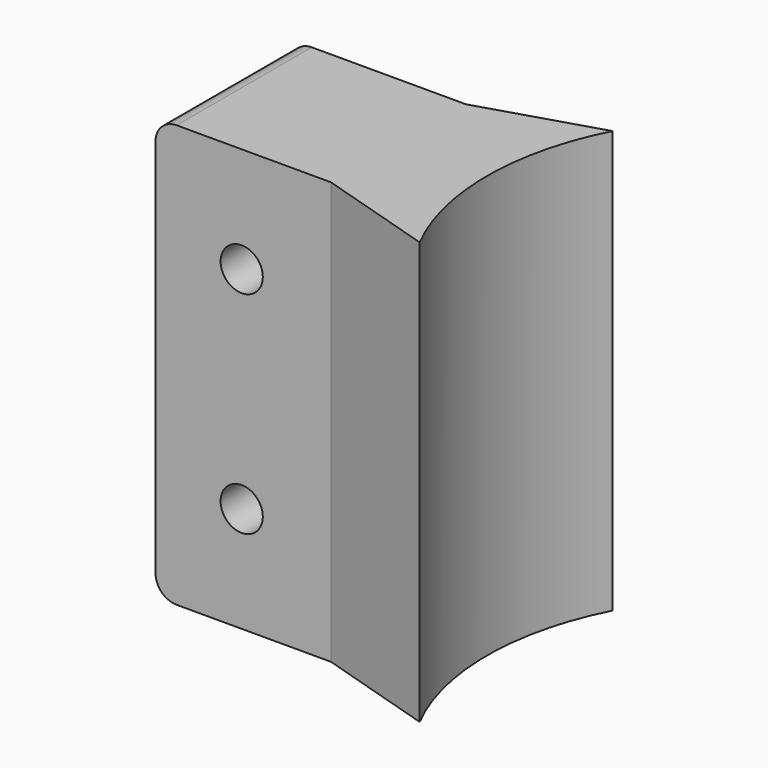
from build123d import *

# Parameters (mm, degrees)
PAD002_DEPTH         = 40
SKETCH005_R          = 2
POCKET002_DEPTH      = 11.42
POCKET002_DEPTH_BACK = 11.42
FILLET003_R          = 2


with BuildPart() as part:
    # Sketch004 → Pad002 (new body)
    with BuildSketch(Plane.XY):
        with BuildLine():
            ThreePointArc((-7.404873, 11.419), (-10.165124, 0), (-7.404873, -11.419))
            Line((-18.540205, -8), (-7.404873, -11.419))
            Line((-35.165124, -8), (-18.540205, -8))
            Line((-35.165124, 8), (-35.165124, -8))
            Line((-18.540205, 8), (-35.165124, 8))
            Line((-7.404873, 11.419), (-18.540205, 8))
        make_face()
    extrude(amount=PAD002_DEPTH)

    # Sketch005 → Pocket002 (cut, two sides)
    with BuildSketch(Plane.XZ) as pocket002_sk:
        with Locations((-27, 30)):
            Circle(SKETCH005_R)
        with Locations((-27, 10)):
            Circle(SKETCH005_R)
    extrude(amount=-POCKET002_DEPTH, mode=Mode.SUBTRACT)
    extrude(pocket002_sk.sketch, amount=POCKET002_DEPTH_BACK, mode=Mode.SUBTRACT)

    # Fillet003
    fillet003_edges = [part.edges().sort_by_distance(p)[0] for p in [
        (-35.165124, 0, 40),
        (-35.165124, 0, 0),
    ]]
    fillet(fillet003_edges, radius=FILLET003_R)


with BuildPart() as part_1:
    # Body002 placement: moved
    add(part.part.moved(Location((-30, 0, 0))))


solid = part_1.part
